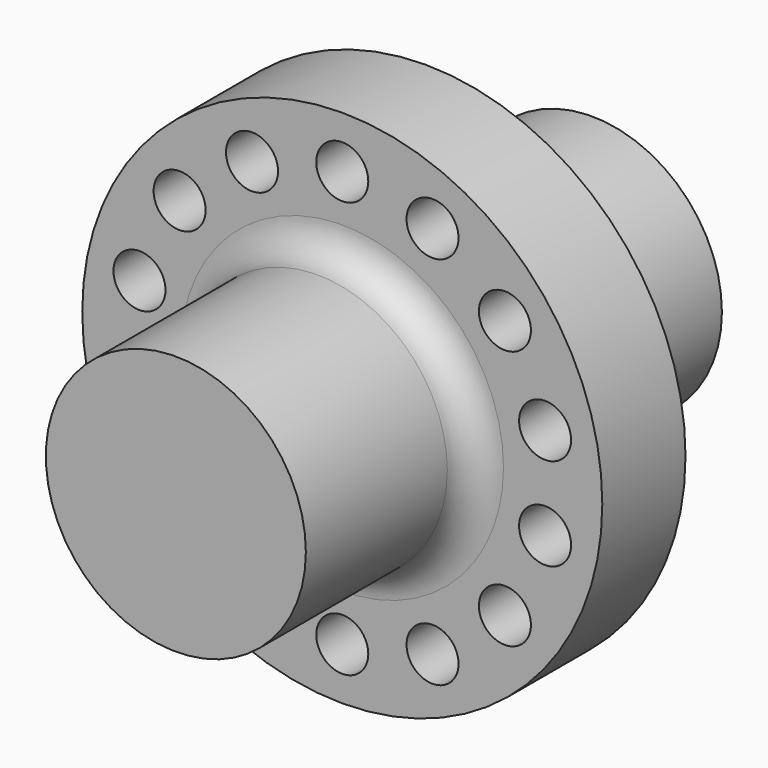
from build123d import *

# Parameters (mm, degrees)
F0_R     = 12.5
F1_DEPTH = 25
F2_R     = 25
F2_R_2   = 2.5
F3_DEPTH = 5
F4_R     = 3


with BuildPart() as f1:
    # F0 (on Front) → F1 (new body, symmetric)
    with BuildSketch(Plane.XZ):
        Circle(F0_R)
    extrude(amount=F1_DEPTH, both=True)

    # F2 (on Front) → F3 (join, symmetric)
    with BuildSketch(Plane.XZ):
        Circle(F2_R)
        with Locations((-8.6776747824, -18.019377358)):
            Circle(F2_R_2, mode=Mode.SUBTRACT)
        with Locations((-15.6366296494, -12.4697960372)):
            Circle(F2_R_2, mode=Mode.SUBTRACT)
        with Locations((-19.4985582436, -4.4504186791)):
            Circle(F2_R_2, mode=Mode.SUBTRACT)
        with Locations((0, -20)):
            Circle(F2_R_2, mode=Mode.SUBTRACT)
        with Locations((8.6776747824, -18.019377358)):
            Circle(F2_R_2, mode=Mode.SUBTRACT)
        with Locations((15.6366296494, -12.4697960372)):
            Circle(F2_R_2, mode=Mode.SUBTRACT)
        with Locations((19.4985582436, -4.4504186791)):
            Circle(F2_R_2, mode=Mode.SUBTRACT)
        with Locations((-19.4985582436, 4.4504186791)):
            Circle(F2_R_2, mode=Mode.SUBTRACT)
        with Locations((-15.6366296494, 12.4697960372)):
            Circle(F2_R_2, mode=Mode.SUBTRACT)
        with Locations((-8.6776747824, 18.019377358)):
            Circle(F2_R_2, mode=Mode.SUBTRACT)
        with Locations((19.4985582436, 4.4504186791)):
            Circle(F2_R_2, mode=Mode.SUBTRACT)
        with Locations((15.6366296494, 12.4697960372)):
            Circle(F2_R_2, mode=Mode.SUBTRACT)
        with Locations((8.6776747824, 18.019377358)):
            Circle(F2_R_2, mode=Mode.SUBTRACT)
        with Locations((0, 20)):
            Circle(F2_R_2, mode=Mode.SUBTRACT)
    extrude(amount=F3_DEPTH, both=True)

    # F4
    f4_edges = [f1.edges().sort_by_distance(p)[0] for p in [
        (-12.5, 5, 0),
        (-12.5, -5, 0),
    ]]
    fillet(f4_edges, radius=F4_R)


solid = f1.part
